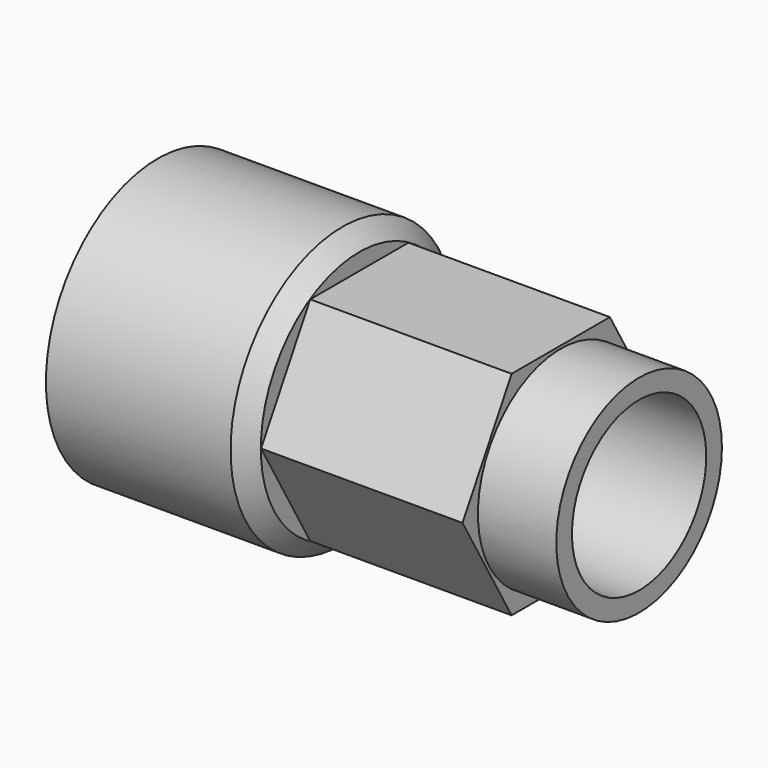
from build123d import *

# Parameters (mm, degrees)
F3_DEPTH  = 10
F5_DEPTH  = 18
F6_R      = 9.25
F7_DEPTH  = 7
F8_SIZE   = 1.5
F10_D     = 15
F10_DEPTH = 10
F10_TIP   = 4.5064546427


with BuildPart() as f1:
    # F0 (on Top) → F1 (revolve)
    with BuildSketch(Plane.XY):
        Polygon((0, 12.5), (0, 8.5), (10, 8.5), (10, 7.5), (15, 7.5), (15, 0), (18, 0), (18, 12.5), align=None)
    revolve(axis=Axis((16.5, 0, 0), (1, 0, 0)))

    # F2 (on face) → F3 (cut)
    with BuildSketch(Plane(origin=(0, 0, 0), x_dir=(0, -1, 0), z_dir=(-1, 0, 0))):
        with BuildLine():
            ThreePointArc((7.4478184814, -4.2999999846), (8.3069621084, -2.2258437793), (8.6, 0))
            ThreePointArc((8.6, 0), (8.3069621251, 2.2258437168), (7.4478185462, 4.2999998725))
            ThreePointArc((7.4478185462, 4.2999998725), (4.3000000638, 7.4478184357), (0, 8.6))
            ThreePointArc((0, 8.6), (-4.3000000291, 7.4478184557), (-7.4478185062, 4.2999999418))
            ThreePointArc((-7.4478185062, 4.2999999418), (-8.6, 4e-08), (-7.4478185462, -4.2999998725))
            ThreePointArc((-7.4478185462, -4.2999998725), (-4.3000000638, -7.4478184357), (0, -8.6))
            ThreePointArc((0, -8.6), (4.3000000077, -7.4478184681), (7.4478184814, -4.2999999846))
        make_face()
        with BuildLine():
            ThreePointArc((7.4478185462, 4.2999998725), (8.3069621251, 2.2258437168), (8.6, 0))
            ThreePointArc((8.6, 0), (8.3069621084, -2.2258437793), (7.4478184814, -4.2999999846))
            Line((7.4478184814, -4.2999999846), (9.9304246301, 0))
            Line((9.9304246301, 0), (7.4478185462, 4.2999998725))
        make_face()
        with BuildLine():
            ThreePointArc((0, 8.6), (4.3000000638, 7.4478184357), (7.4478185462, 4.2999998725))
            Line((7.4478185462, 4.2999998725), (4.965212315, 8.6))
            Line((4.965212315, 8.6), (0, 8.6))
        make_face()
        with BuildLine():
            Line((4.965212315, -8.6), (7.4478184814, -4.2999999846))
            ThreePointArc((7.4478184814, -4.2999999846), (4.3000000077, -7.4478184681), (0, -8.6))
            Line((0, -8.6), (4.965212315, -8.6))
        make_face()
        with BuildLine():
            ThreePointArc((-7.4478185062, 4.2999999418), (-4.3000000291, 7.4478184557), (0, 8.6))
            Line((0, 8.6), (-4.965212315, 8.6))
            Line((-4.965212315, 8.6), (-7.4478185062, 4.2999999418))
        make_face()
        with BuildLine():
            Line((-4.965212315, -8.6), (0, -8.6))
            ThreePointArc((0, -8.6), (-4.3000000638, -7.4478184357), (-7.4478185462, -4.2999998725))
            Line((-7.4478185462, -4.2999998725), (-4.965212315, -8.6))
        make_face()
        with BuildLine():
            ThreePointArc((-7.4478185462, -4.2999998725), (-8.6, 4e-08), (-7.4478185062, 4.2999999418))
            Line((-7.4478185062, 4.2999999418), (-9.9304246301, 0))
            Line((-9.9304246301, 0), (-7.4478185462, -4.2999998725))
        make_face()
    extrude(amount=-F3_DEPTH, mode=Mode.SUBTRACT)

    # F4 (on face) → F5 (join)
    with BuildSketch(Plane.YZ.offset(18)):
        Polygon((5.4848275573, 9.5), (-5.4848275573, 9.5), (-10.9696551146, 0), (-5.4848275573, -9.5), (5.4848275573, -9.5), (10.9696551146, 0), align=None)
    extrude(amount=F5_DEPTH)

    # F6 (on face) → F7 (join)
    with BuildSketch(Plane.YZ.offset(36)):
        Circle(F6_R)
    extrude(amount=F7_DEPTH)

    # F8
    f8_edges = [f1.edges().sort_by_distance(p)[0] for p in [
        (18, -12.5, 0),
    ]]
    chamfer(f8_edges, length=F8_SIZE)

    # F10
    with Locations(Plane.YZ.offset(43)):
        with Locations((0, 0)):
            Hole(F10_D / 2, depth=F10_DEPTH)
            with Locations((0, 0, -(F10_DEPTH + F10_TIP / 2))):  # 118° drill point
                Cone(0, F10_D / 2, F10_TIP, mode=Mode.SUBTRACT)


solid = f1.part
